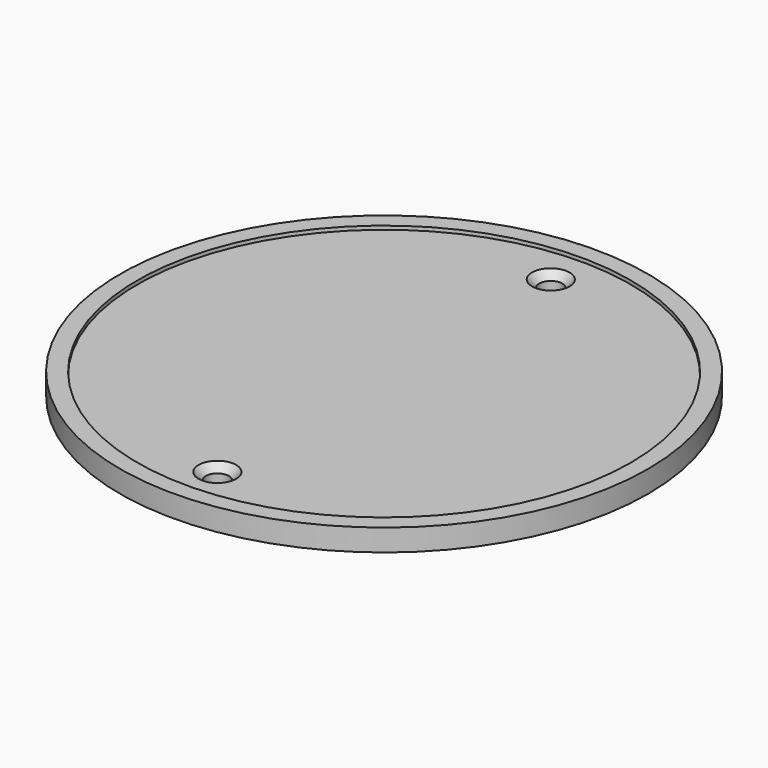
from build123d import *

# Parameters (mm, degrees)
F0_R     = 24.06525
F0_R_2   = 1.05
F1_DEPTH = 2
F2_SIZE  = 1
F3_SCALE = 3
F4_R     = 67.5
F5_DEPTH = 1


with BuildPart() as f1:
    # F0 (on Top) → F1 (new body)
    with BuildSketch(Plane.XY):
        Circle(F0_R)
        with Locations((0, -19)):
            Circle(F0_R_2, mode=Mode.SUBTRACT)
        with Locations((0, 19)):
            Circle(F0_R_2, mode=Mode.SUBTRACT)
    extrude(amount=F1_DEPTH)

    # F2
    f2_edges = [f1.edges().sort_by_distance(p)[0] for p in [
        (-1.05, 19, 2),
        (-1.05, -19, 2),
    ]]
    chamfer(f2_edges, length=F2_SIZE)


with BuildPart() as f1_1:
    # F3: moved
    add(f1.part.scale(F3_SCALE))

    # F4 (on face) → F5 (cut)
    with BuildSketch(Plane.XY.offset(6)):
        Circle(F4_R)
    extrude(amount=-F5_DEPTH, mode=Mode.SUBTRACT)


solid = f1_1.part
